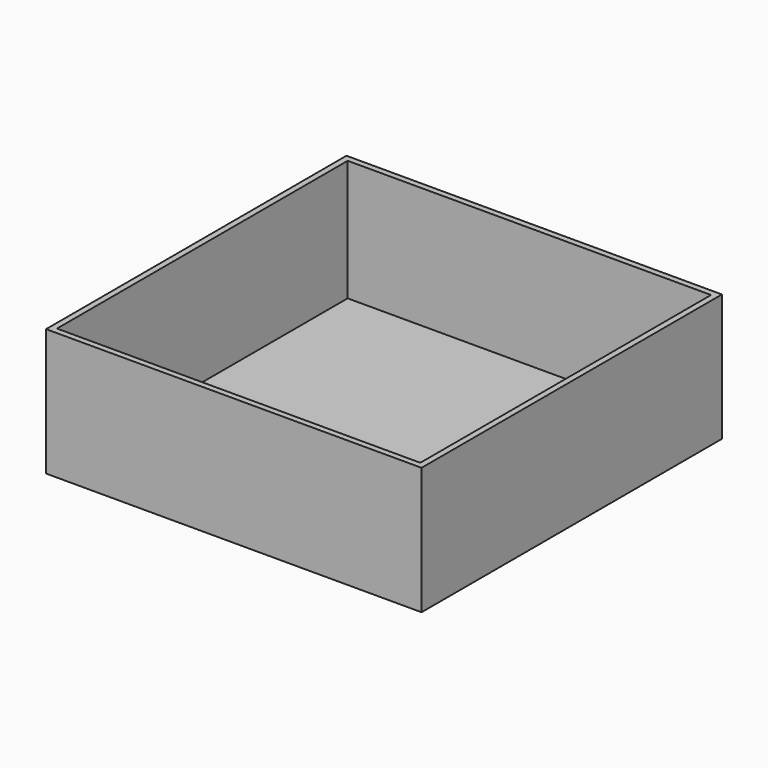
from build123d import *

# Parameters (mm, degrees)
F0_W     = 124
F0_H     = 124
F0_W_2   = 120
F0_H_2   = 120
F1_DEPTH = 2
F2_DEPTH = 40


with BuildPart() as f1:
    # F0 (on Top) → F1 (new body)
    with BuildSketch(Plane.XY):
        Rectangle(F0_W, F0_H)
        Rectangle(F0_W_2, F0_H_2, mode=Mode.SUBTRACT)
        Rectangle(F0_W_2, F0_H_2)
    extrude(amount=-F1_DEPTH)

    # F0 (on Top) → F2 (join)
    with BuildSketch(Plane.XY):
        Rectangle(F0_W, F0_H)
        Rectangle(F0_W_2, F0_H_2, mode=Mode.SUBTRACT)
    extrude(amount=F2_DEPTH)


solid = f1.part
